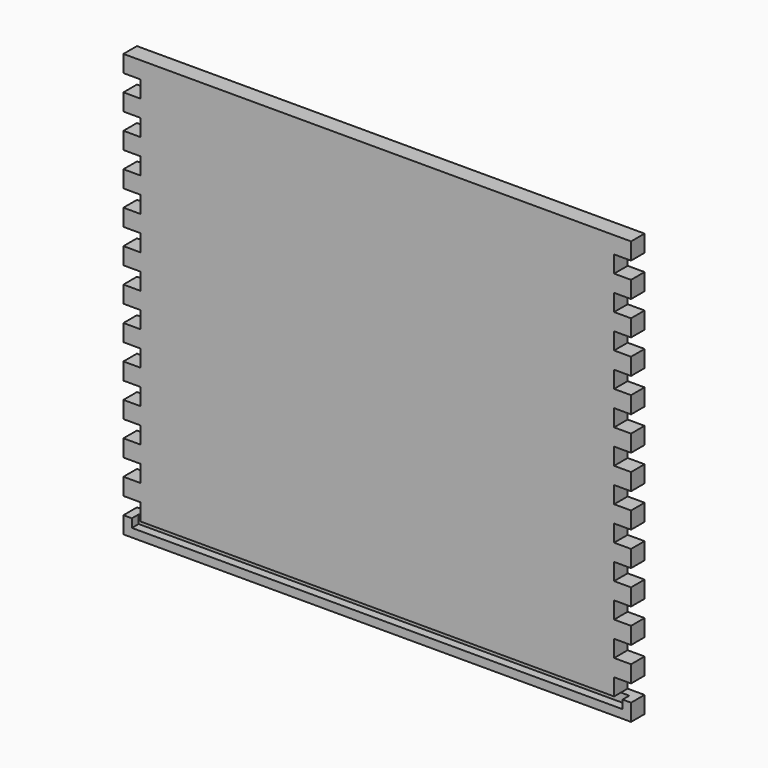
from build123d import *

# Parameters (mm, degrees)
F0_W     = 600
F0_H     = 500
F1_DEPTH = 20
F2_W     = 20
F2_H     = 20
F3_DEPTH = 20
F4_W     = 580
F4_H     = 10
F5_DEPTH = 10


with BuildPart() as f1:
    # F0 (on Front) → F1 (new body)
    with BuildSketch(Plane.XZ):
        Rectangle(F0_W, F0_H)
    extrude(amount=F1_DEPTH)

    # F2 (on face) → F3 (cut, through all)
    with BuildSketch(Plane.XZ.offset(20)):
        with Locations((290, -220)):
            Rectangle(F2_W, F2_H)
        with Locations((290, -180)):
            Rectangle(F2_W, F2_H)
        with Locations((290, -140)):
            Rectangle(F2_W, F2_H)
        with Locations((290, -100)):
            Rectangle(F2_W, F2_H)
        with Locations((290, -60)):
            Rectangle(F2_W, F2_H)
        with Locations((290, -20)):
            Rectangle(F2_W, F2_H)
        with Locations((290, 20)):
            Rectangle(F2_W, F2_H)
        with Locations((290, 60)):
            Rectangle(F2_W, F2_H)
        with Locations((290, 100)):
            Rectangle(F2_W, F2_H)
        with Locations((290, 140)):
            Rectangle(F2_W, F2_H)
        with Locations((290, 180)):
            Rectangle(F2_W, F2_H)
        with Locations((-290, -220)):
            Rectangle(F2_W, F2_H)
        with Locations((-290, -60)):
            Rectangle(F2_W, F2_H)
        with Locations((-290, 100)):
            Rectangle(F2_W, F2_H)
        with Locations((-290, 20)):
            Rectangle(F2_W, F2_H)
        with Locations((-290, 180)):
            Rectangle(F2_W, F2_H)
        with Locations((-290, -20)):
            Rectangle(F2_W, F2_H)
        with Locations((-290, 140)):
            Rectangle(F2_W, F2_H)
        with Locations((-290, 60)):
            Rectangle(F2_W, F2_H)
        with Locations((-290, -100)):
            Rectangle(F2_W, F2_H)
        with Locations((-290, -140)):
            Rectangle(F2_W, F2_H)
        with Locations((-290, -180)):
            Rectangle(F2_W, F2_H)
        with Locations((290, 220)):
            Rectangle(F2_W, F2_H)
        with Locations((-290, 220)):
            Rectangle(F2_W, F2_H)
    extrude(amount=-F3_DEPTH, mode=Mode.SUBTRACT)

    # F4 (on face) → F5 (cut)
    with BuildSketch(Plane.XZ.offset(20)):
        with Locations((0, -235)):
            Rectangle(F4_W, F4_H)
    extrude(amount=-F5_DEPTH, mode=Mode.SUBTRACT)


solid = f1.part
